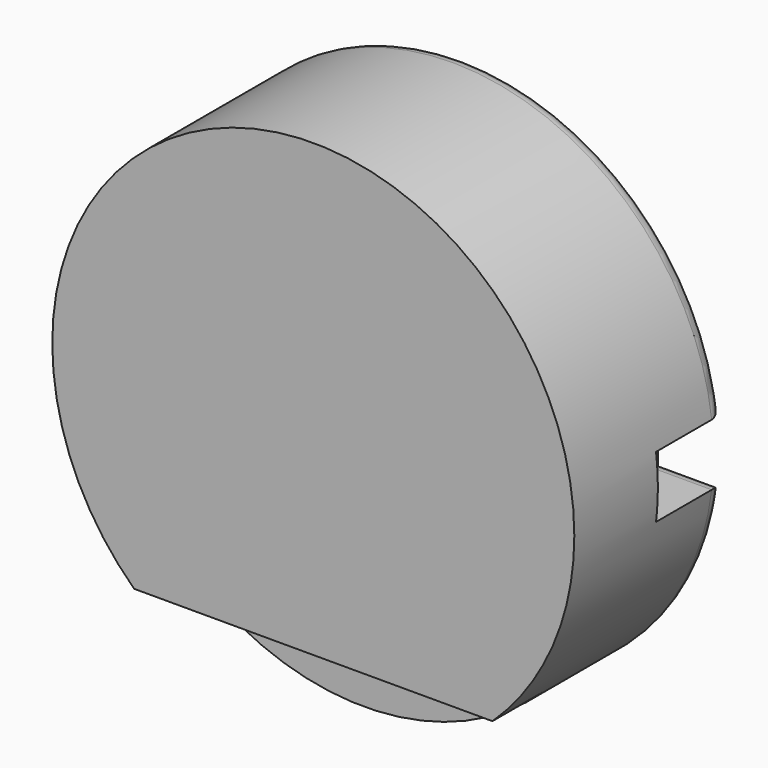
from build123d import *

# Parameters (mm, degrees)
SKETCH009_W     = 14
SKETCH009_H     = 2
PAD008_DEPTH    = 3
SKETCH097_R     = 8.25
PAD059_DEPTH    = 6
POCKET020_DEPTH = 2.7
FILLET_R        = 0.5


with BuildPart() as hole005:
    # Sketch009 → Pad008 (new body)
    with BuildSketch(Plane.XY):
        with Locations((0, 1)):
            Rectangle(SKETCH009_W, SKETCH009_H)
    extrude(amount=PAD008_DEPTH)


with BuildPart() as hole005_1:
    # Body017 placement: moved
    add(hole005.part.moved(Location((0, 0, -9))))


with BuildPart() as metal_case:
    # Sketch097 → Pad059 (new body)
    with BuildSketch(Plane.XZ):
        Circle(SKETCH097_R)
    extrude(amount=PAD059_DEPTH)

    # Sketch096 (on Face2 of Pad059) → Pocket020 (cut)
    with BuildSketch(Plane(origin=(0, 0, 0), x_dir=(1, 0, 0), z_dir=(0, 1, 0))):
        Polygon((6.35, 0.975), (8.25, 0.975), (8.25, -0.975), (6.35, -0.975), (6.35, 0), align=None)
    extrude(amount=-POCKET020_DEPTH, mode=Mode.SUBTRACT)

    # Fillet
    fillet_edges = [metal_case.edges().sort_by_distance(p)[0] for p in [
        (7.271092, 0, 0.975),
        (6.35, 0, 0.4875),
        (6.35, 0, -0.4875),
        (7.271092, 0, -0.975),
        (-8.25, 0, 0),
    ]]
    fillet(fillet_edges, radius=FILLET_R)


with BuildPart() as metal_case_1:
    # Body020 placement: moved
    add(metal_case.part.moved(Location((0, 6, 0))))

    # Cut: cut Hole005
    add(hole005_1.part, mode=Mode.SUBTRACT)


solid = metal_case_1.part
